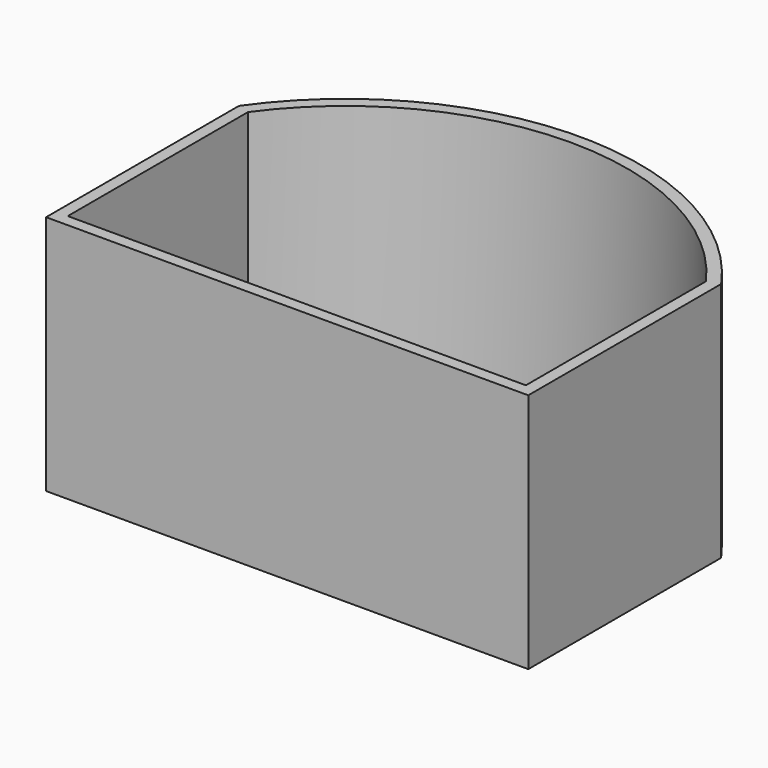
from build123d import *

# Parameters (mm, degrees)
F1_DEPTH = 50.8
F2_T     = -2.54


with BuildPart() as f1:
    # F0 (on Top) → F1 (new body)
    with BuildSketch(Plane.XY):
        with BuildLine():
            Line((-50.8, 25.4), (-50.8, -25.4))
            Line((-50.8, -25.4), (50.8, -25.4))
            Line((50.8, -25.4), (50.8, 25.4))
            ThreePointArc((50.8, 25.4), (0, 51.874105), (-50.8, 25.4))
        make_face()
    extrude(amount=F1_DEPTH)

    # F2
    f2_openings = [f1.faces().sort_by_distance(p)[0] for p in [
        (0, 9.695027, 50.8),
    ]]
    offset(amount=F2_T, openings=f2_openings)


solid = f1.part
